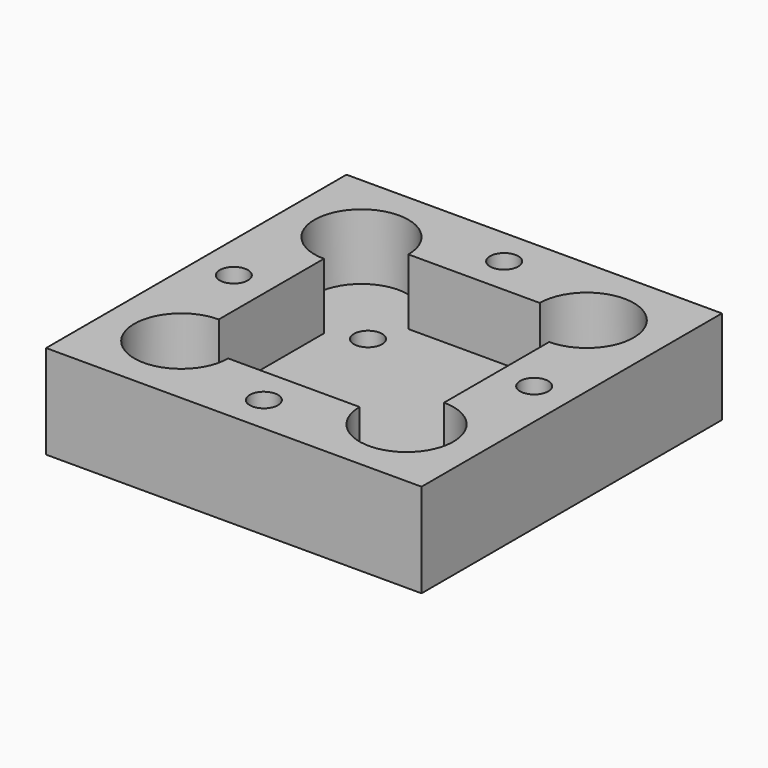
from build123d import *

# Parameters (mm, degrees)
F0_W     = 40
F0_H     = 40
F0_R     = 1.5
F1_DEPTH = 10
F3_DEPTH = 7
F4_R     = 3
F5_DEPTH = 3
F6_R     = 1.5
F7_DEPTH = 3.001


with BuildPart() as f1:
    # F0 (on Top) → F1 (new body)
    with BuildSketch(Plane.XY):
        Rectangle(F0_W, F0_H)
        with Locations((0, -16)):
            Circle(F0_R, mode=Mode.SUBTRACT)
        with Locations((-16, 0)):
            Circle(F0_R, mode=Mode.SUBTRACT)
        with Locations((16, 0)):
            Circle(F0_R, mode=Mode.SUBTRACT)
        with Locations((0, 16)):
            Circle(F0_R, mode=Mode.SUBTRACT)
    extrude(amount=F1_DEPTH)

    # F2 (on face) → F3 (cut)
    with BuildSketch(Plane.XY.offset(10)):
        with BuildLine():
            Line((7, 12), (-7, 12))
            ThreePointArc((-7, 12), (-15.535534, 15.535534), (-12, 7))
            Line((-12, 7), (-12, -7))
            ThreePointArc((-12, -7), (-15.535534, -15.535534), (-7, -12))
            Line((-7, -12), (7, -12))
            ThreePointArc((7, -12), (15.535534, -15.535534), (12, -7))
            Line((12, -7), (12, 7))
            ThreePointArc((12, 7), (15.535534, 15.535534), (7, 12))
        make_face()
    extrude(amount=-F3_DEPTH, mode=Mode.SUBTRACT)

    # F4 (on face) → F5 (cut)
    with BuildSketch(Plane(origin=(0, 0, 0), x_dir=(1, 0, 0), z_dir=(0, 0, -1))):
        with Locations((0, 16)):
            Circle(F4_R)
        with Locations((-16, 0)):
            Circle(F4_R)
        with Locations((0, -16)):
            Circle(F4_R)
        with Locations((16, 0)):
            Circle(F4_R)
    extrude(amount=-F5_DEPTH, mode=Mode.SUBTRACT)

    # F6 (on face) → F7 (cut, through all)
    with BuildSketch(Plane.XY.offset(3)):
        with Locations((-8.5, 8.5)):
            Circle(F6_R)
        with Locations((8.5, 8.5)):
            Circle(F6_R)
        with Locations((-8.5, -8.5)):
            Circle(F6_R)
        with Locations((8.5, -8.5)):
            Circle(F6_R)
    extrude(amount=-F7_DEPTH, mode=Mode.SUBTRACT)


solid = f1.part
